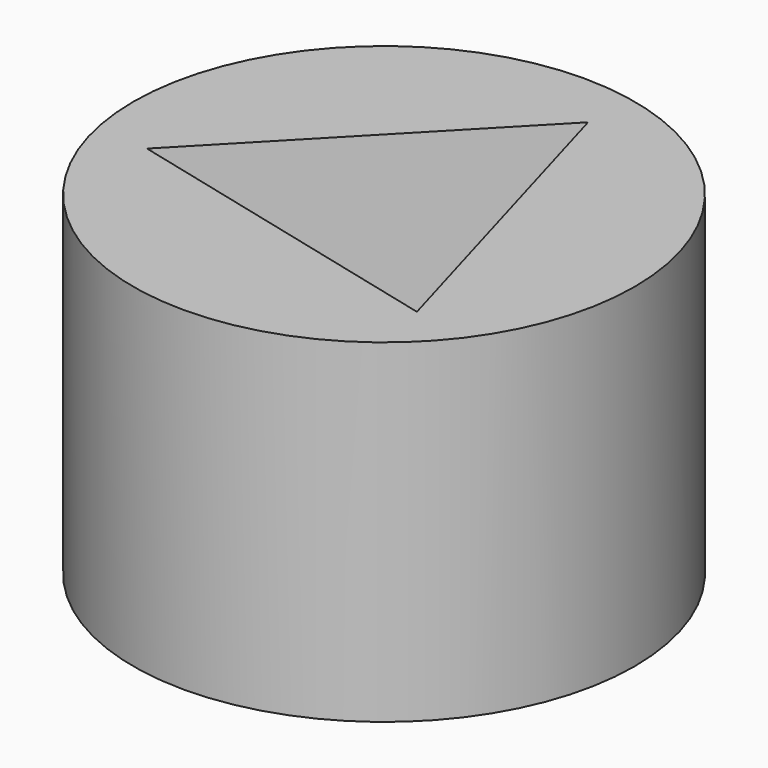
from build123d import *

# Parameters (mm, degrees)
F0_R     = 38.1
F1_DEPTH = 50.8
F3_DEPTH = 50.8


with BuildPart() as f1:
    # F0 (on Top) → F1 (new body)
    with BuildSketch(Plane.XY):
        Circle(F0_R)
    extrude(amount=F1_DEPTH)

    # F2 (on Top) → F3 (cut)
    with BuildSketch(Plane.XY):
        Polygon((7.361891, 29.577575), (-29.295877, -8.413203), (21.933986, -21.164372), align=None)
    extrude(amount=F3_DEPTH, mode=Mode.SUBTRACT)


solid = f1.part
